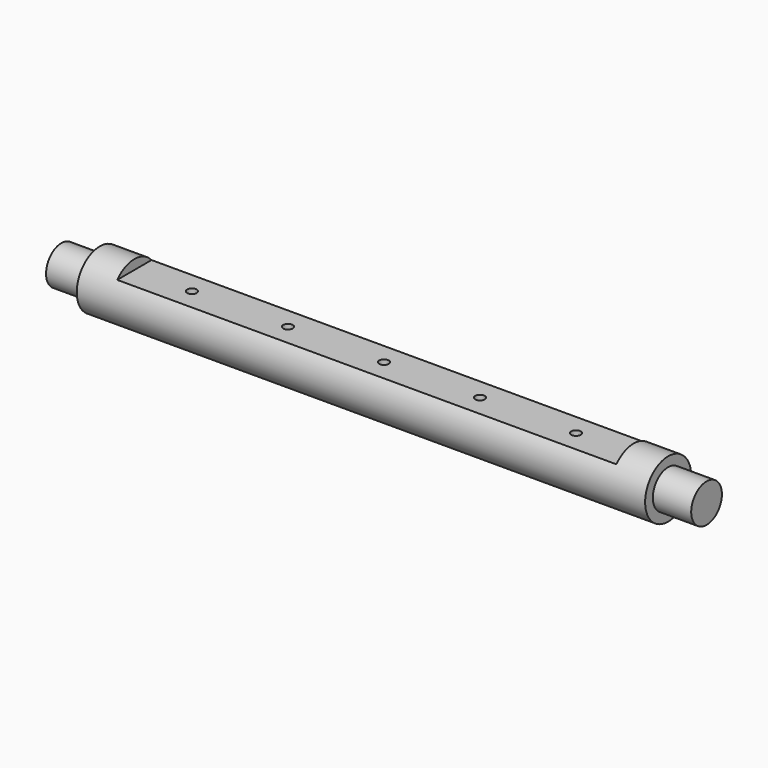
from build123d import *

# Parameters (mm, degrees)
SKETCH_R     = 10
PAD_DEPTH    = 168
SKETCH001_R  = 15
PAD001_DEPTH = 148
SKETCH002_W  = 40
SKETCH002_H  = 15
POCKET_DEPTH = 130
SKETCH003_R  = 2.5
HOLE_DEPTH   = 25
HOLE_TIPS_R  = 2.5


with BuildPart() as part:
    # Sketch → Pad (new body, symmetric)
    with BuildSketch(Plane.YZ):
        Circle(SKETCH_R)
    extrude(amount=PAD_DEPTH, both=True)

    # Sketch001 → Pad001 (join, symmetric)
    with BuildSketch(Plane.YZ):
        Circle(SKETCH001_R)
    extrude(amount=PAD001_DEPTH, both=True)

    # Sketch002 → Pocket (cut, symmetric)
    with BuildSketch(Plane.YZ):
        with Locations((0, 17.5)):
            Rectangle(SKETCH002_W, SKETCH002_H)
    extrude(amount=POCKET_DEPTH, both=True, mode=Mode.SUBTRACT)

    # Sketch003 → Hole (cut)
    with BuildSketch(Plane.XY.offset(10)):
        Circle(SKETCH003_R)
        with Locations((-50, 0)):
            Circle(SKETCH003_R)
        with Locations((-100, 0)):
            Circle(SKETCH003_R)
        with Locations((50, 0)):
            Circle(SKETCH003_R)
        with Locations((100, 0)):
            Circle(SKETCH003_R)
    extrude(amount=-HOLE_DEPTH, mode=Mode.SUBTRACT)

    # Hole tips → Hole tip 1 section 0
    with BuildSketch(Plane.XY.offset(-15), mode=Mode.PRIVATE) as hole_tip_1_s0:
        Circle(HOLE_TIPS_R)
    loft([hole_tip_1_s0.sketch, Vertex(0, 0, -16.502152)], mode=Mode.SUBTRACT)

    # Hole tips → Hole tip 2 section 0
    with BuildSketch(Plane.XY.offset(-15), mode=Mode.PRIVATE) as hole_tip_2_s0:
        with Locations((-50, 0)):
            Circle(HOLE_TIPS_R)
    loft([hole_tip_2_s0.sketch, Vertex(-50, 0, -16.502152)], mode=Mode.SUBTRACT)

    # Hole tips → Hole tip 3 section 0
    with BuildSketch(Plane.XY.offset(-15), mode=Mode.PRIVATE) as hole_tip_3_s0:
        with Locations((-100, 0)):
            Circle(HOLE_TIPS_R)
    loft([hole_tip_3_s0.sketch, Vertex(-100, 0, -16.502152)], mode=Mode.SUBTRACT)

    # Hole tips → Hole tip 4 section 0
    with BuildSketch(Plane.XY.offset(-15), mode=Mode.PRIVATE) as hole_tip_4_s0:
        with Locations((50, 0)):
            Circle(HOLE_TIPS_R)
    loft([hole_tip_4_s0.sketch, Vertex(50, 0, -16.502152)], mode=Mode.SUBTRACT)

    # Hole tips → Hole tip 5 section 0
    with BuildSketch(Plane.XY.offset(-15), mode=Mode.PRIVATE) as hole_tip_5_s0:
        with Locations((100, 0)):
            Circle(HOLE_TIPS_R)
    loft([hole_tip_5_s0.sketch, Vertex(100, 0, -16.502152)], mode=Mode.SUBTRACT)


solid = part.part
